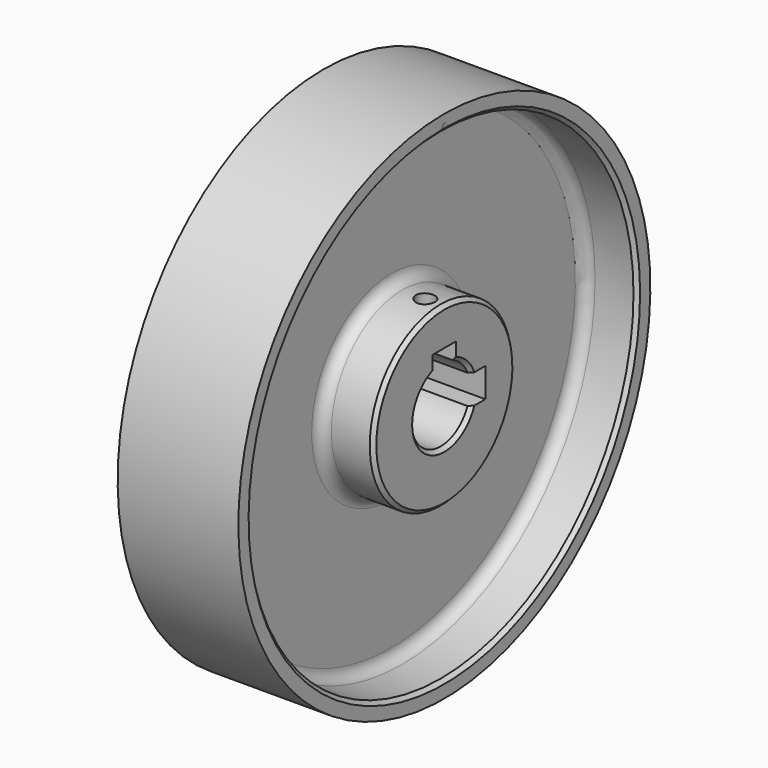
from build123d import *

# Parameters (mm, degrees)
F2_R     = 3
F4_DEPTH = 25
F5_SIZE  = 1
F9_D     = 5.1054
F9_DEPTH = 56.7408363237


with BuildPart() as f1:
    # F0 (on Front) → F1 (revolve)
    with BuildSketch(Plane.XZ):
        Polygon((-11.987469025, 24.25), (-11.987469025, 0), (12.012530975, 0), (12.012530975, 24.25), (-2.487469025, 24.25), (-2.487469025, 65.9), (12.012530975, 65.9), (12.012530975, 70.4), (-20.987469025, 70.4), (-20.987469025, 65.9), (-5.487469025, 65.9), (-5.487469025, 24.25), align=None)
    revolve(axis=Axis((-25.877635926, 0, 0), (-1, 0, 0)))

    # F2
    f2_edges = [f1.edges().sort_by_distance(p)[0] for p in [
        (-2.487469, 0, -24.25),
        (-2.487469, 0, -65.9),
        (-5.487469, 0, -24.25),
        (-5.487469, 0, -65.9),
    ]]
    fillet(f2_edges, radius=F2_R)

    # F3 (on face) → F4 (cut)
    with BuildSketch(Plane.YZ.offset(12.012530975)):
        with BuildLine():
            Line((-4, 14), (-4, 9.1651513899))
            ThreePointArc((-4, 9.1651513899), (-7.0710678119, -7.0710678119), (9.1651513899, -4))
            Line((9.1651513899, -4), (14, -4))
            Line((14, -4), (14, 4))
            Line((14, 4), (9.1651513899, 4))
            ThreePointArc((9.1651513899, 4), (7.0710678119, 7.0710678119), (4, 9.1651513899))
            Line((4, 9.1651513899), (4, 14))
            Line((4, 14), (-4, 14))
        make_face()
    extrude(amount=-F4_DEPTH, mode=Mode.SUBTRACT)

    # F5
    f5_edges = [f1.edges().sort_by_distance(p)[0] for p in [
        (12.012531, 0, -65.9),
        (12.012531, 0, -24.25),
        (12.012531, -7.071068, -7.071068),
        (12.012531, 7.071068, 7.071068),
        (-11.987469, 0, -24.25),
        (-20.987469, 0, -65.9),
        (-11.987469, -7.071068, -7.071068),
        (-11.987469, 7.071068, 7.071068),
    ]]
    chamfer(f5_edges, length=F5_SIZE)

    # F9 (through all, one way)
    with BuildSketch(Plane(origin=(2.5485619967, 0, 14.4536133183), x_dir=(0.984807753, 0, -0.1736481777), z_dir=(-0.1736481777, 0, -0.984807753))):
        with Locations((2.532057697, 0)):
            Circle(F9_D / 2)
    extrude(amount=-F9_DEPTH, mode=Mode.SUBTRACT)


solid = f1.part
